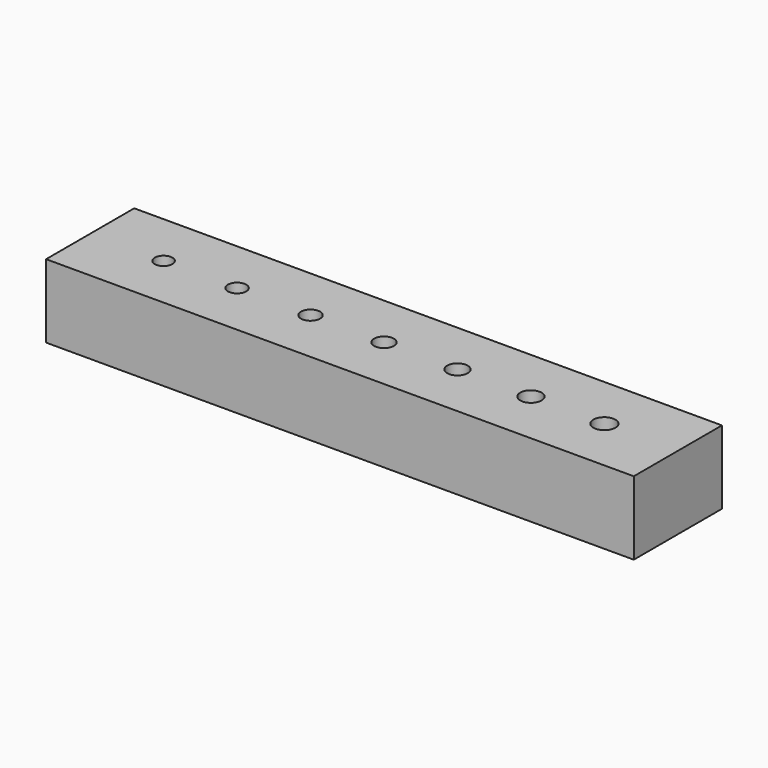
from build123d import *

# Parameters (mm, degrees)
F0_W     = 101.6
F0_H     = 19.05
F0_R     = 1.524
F0_R_2   = 1.5875
F0_R_3   = 1.651
F0_R_4   = 1.7145
F0_R_5   = 1.778
F0_R_6   = 1.8415
F0_R_7   = 1.905
F1_DEPTH = 12.7


with BuildPart() as f1:
    # F0 (on Top) → F1 (new body)
    with BuildSketch(Plane.XY):
        with Locations((50.8, 9.525)):
            Rectangle(F0_W, F0_H)
        with Locations((12.7, 9.525)):
            Circle(F0_R, mode=Mode.SUBTRACT)
        with Locations((25.4, 9.525)):
            Circle(F0_R_2, mode=Mode.SUBTRACT)
        with Locations((38.1, 9.525)):
            Circle(F0_R_3, mode=Mode.SUBTRACT)
        with Locations((50.8, 9.525)):
            Circle(F0_R_4, mode=Mode.SUBTRACT)
        with Locations((63.5, 9.525)):
            Circle(F0_R_5, mode=Mode.SUBTRACT)
        with Locations((76.2, 9.525)):
            Circle(F0_R_6, mode=Mode.SUBTRACT)
        with Locations((88.9, 9.525)):
            Circle(F0_R_7, mode=Mode.SUBTRACT)
    extrude(amount=F1_DEPTH)


solid = f1.part
